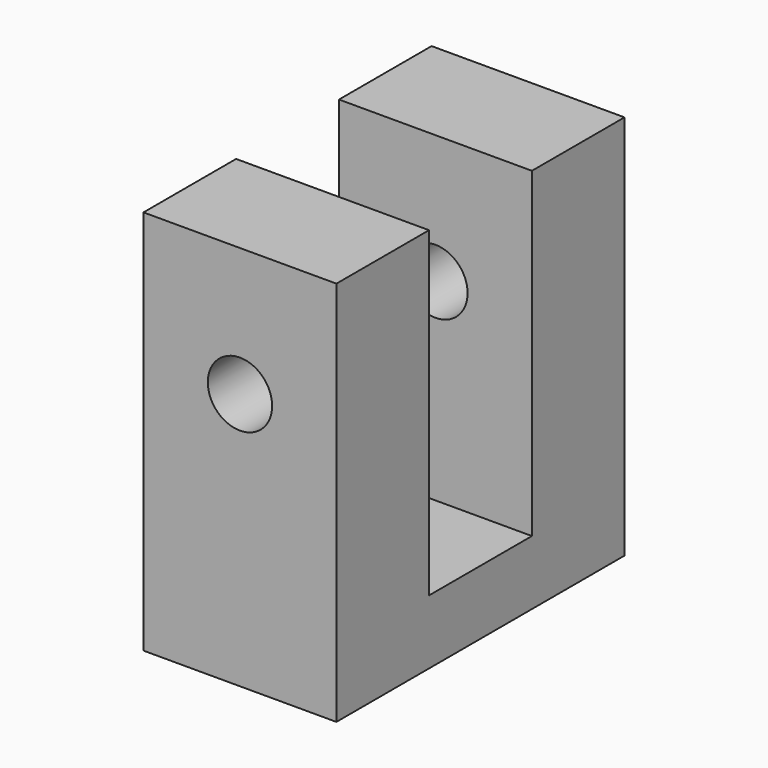
from build123d import *

# Parameters (mm, degrees)
F1_DEPTH = 19.05
F2_R     = 3.175
F3_DEPTH = 76.2
F4_R     = 1.679652
F5_DEPTH = 12.7


with BuildPart() as f1:
    # F0 (on Right) → F1 (new body)
    with BuildSketch(Plane.YZ):
        Polygon((11.43, 38.1), (0, 38.1), (0, 0), (35.56, 0), (35.56, 38.1), (24.13, 38.1), (24.13, 6.35), (11.43, 6.35), align=None)
    extrude(amount=F1_DEPTH)

    # F2 (on face) → F3 (cut)
    with BuildSketch(Plane.XZ):
        with Locations((9.525, 25.4)):
            Circle(F2_R)
    extrude(amount=-F3_DEPTH, mode=Mode.SUBTRACT)

    # F4 (on face) → F5 (cut)
    with BuildSketch(Plane(origin=(0, 0, 0), x_dir=(1, 0, 0), z_dir=(0, 0, -1))):
        with Locations((6.35, -4.7752)):
            Circle(F4_R)
        with Locations((6.35, -30.7848)):
            Circle(F4_R)
    extrude(amount=-F5_DEPTH, mode=Mode.SUBTRACT)


solid = f1.part
